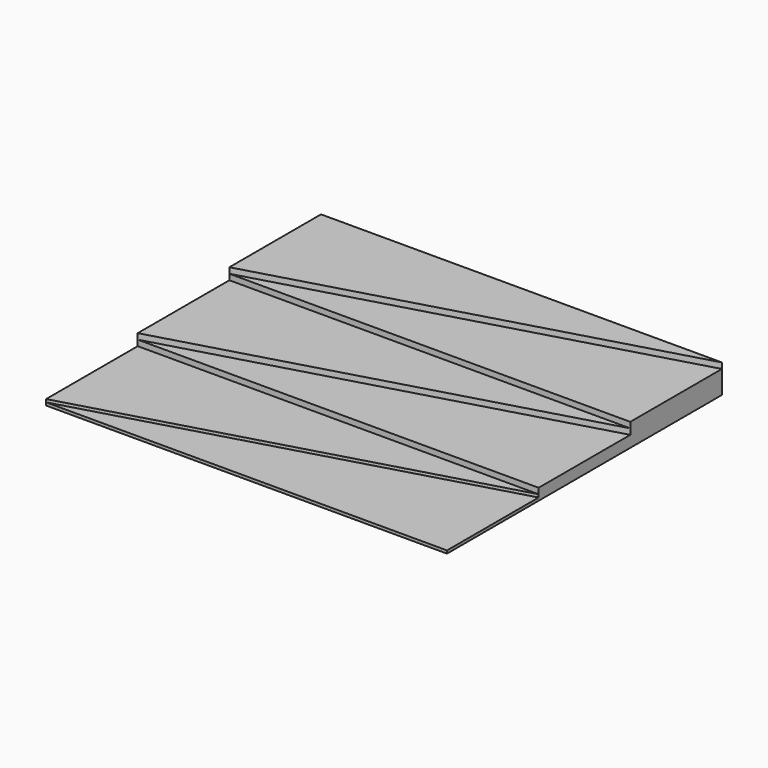
from build123d import *

# Parameters (mm, degrees)
F1_DEPTH = 0.5
F2_DEPTH = 1
F3_DEPTH = 2
F4_DEPTH = 3
F5_DEPTH = 4
F6_DEPTH = 5


with BuildPart() as f1:
    # F0 (on Top) → F1 (new body)
    with BuildSketch(Plane.XY):
        Polygon((36.676646, -130), (36.676646, -110), (-33.323354, -130), align=None)
    extrude(amount=F1_DEPTH)

    # F0 (on Top) → F2 (join)
    with BuildSketch(Plane.XY):
        Polygon((36.676646, -110), (-33.323354, -110), (-33.323354, -130), align=None)
    extrude(amount=F2_DEPTH)

    # F0 (on Top) → F3 (join)
    with BuildSketch(Plane.XY):
        Polygon((36.676646, -110), (36.676646, -90), (-33.323354, -110), align=None)
    extrude(amount=F3_DEPTH)

    # F0 (on Top) → F4 (join)
    with BuildSketch(Plane.XY):
        Polygon((36.676646, -90), (-33.323354, -90), (-33.323354, -110), align=None)
    extrude(amount=F4_DEPTH)

    # F0 (on Top) → F5 (join)
    with BuildSketch(Plane.XY):
        Polygon((36.676646, -90), (36.676646, -70), (-33.323354, -90), align=None)
    extrude(amount=F5_DEPTH)

    # F0 (on Top) → F6 (join)
    with BuildSketch(Plane.XY):
        Polygon((36.676646, -70), (-33.323354, -70), (-33.323354, -90), align=None)
    extrude(amount=F6_DEPTH)


solid = f1.part
